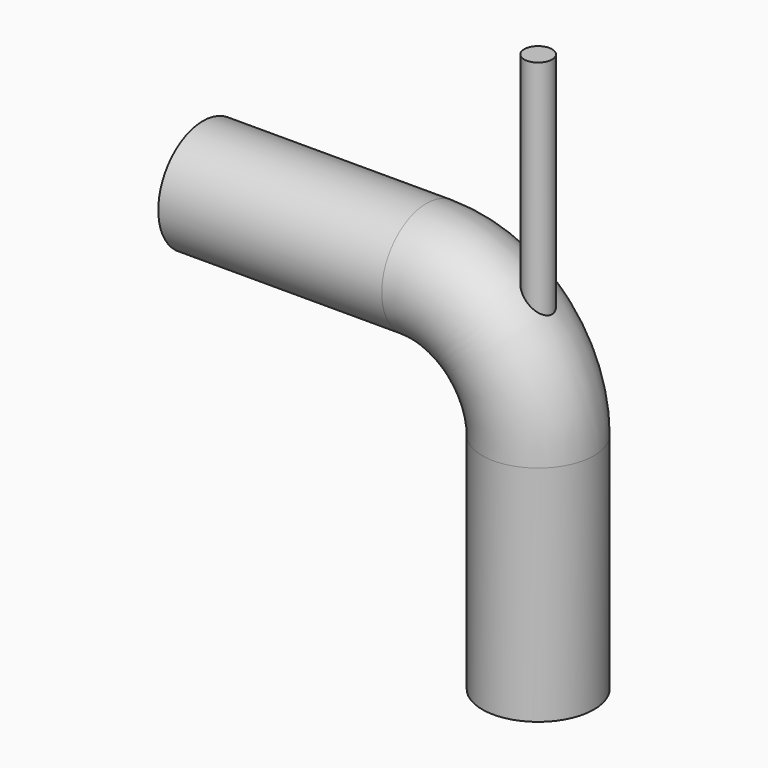
from build123d import *

# Parameters (mm, degrees)
F1_R = 160
F4_R = 40


with BuildPart() as f2:
    # F2: sweep along a path in F0
    with BuildLine(Plane.XZ) as f2_path:
        Line((-640, 0), (0, 0))
        ThreePointArc((0, 0), (226.2741699797, -93.7258300203), (320, -320))
        Line((320, -320), (320, -960))
    # F1 (on Right) → F2 (sweep)
    with BuildSketch(Plane.YZ):
        Circle(F1_R)
    sweep(path=f2_path.line)

    # F5: sweep along a path in F3
    with BuildLine(Plane.XZ) as f5_path:
        Line((320, 640), (320, -183.2472234964))
    # F4 (on Top) → F5 (sweep)
    with BuildSketch(Plane.XY):
        with Locations((320, 0)):
            Circle(F4_R)
    sweep(path=f5_path.line)


solid = f2.part
